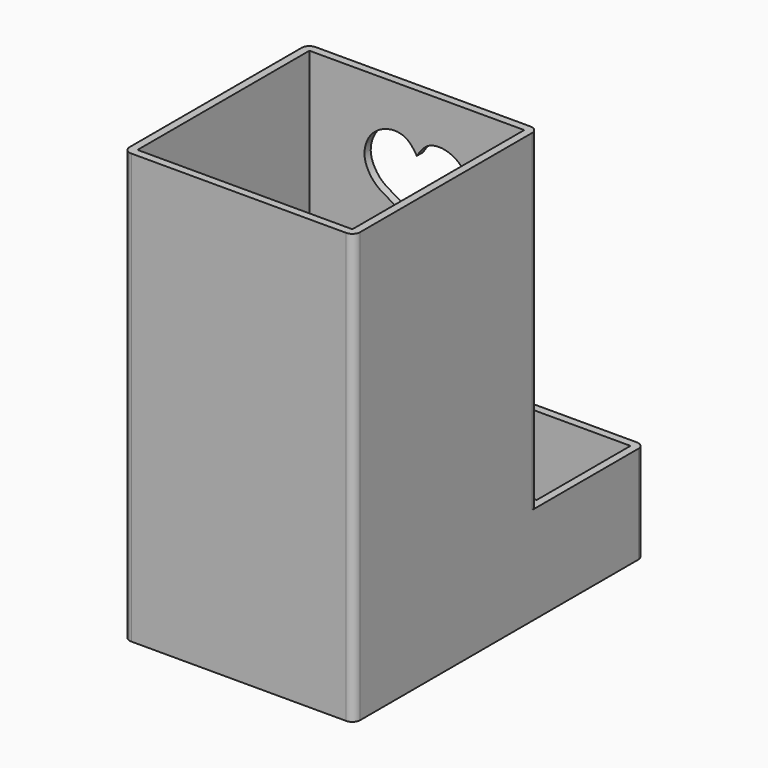
from build123d import *

# Parameters (mm, degrees)
SKETCH_W       = 59
SKETCH_H       = 34
PAD_DEPTH      = 25
THICKNESS_T    = -2
SKETCH002_W    = 59
SKETCH002_H    = 59
PAD001_DEPTH   = 110
THICKNESS001_T = -2
FILLET_R       = 2
FILLET001_R    = 2
POCKET_DEPTH   = 2


with BuildPart() as body:
    # Sketch → Pad (new body)
    with BuildSketch(Plane.XY):
        Rectangle(SKETCH_W, SKETCH_H)
    extrude(amount=PAD_DEPTH)

    # Thickness
    thickness_openings = [body.faces().sort_by_distance(p)[0] for p in [
        (0, 0, 25),
    ]]
    offset(amount=THICKNESS_T, openings=thickness_openings)


with BuildPart() as body001:
    # Sketch002 → Pad001 (new body)
    with BuildSketch(Plane.XY):
        with Locations((0, -46.5)):
            Rectangle(SKETCH002_W, SKETCH002_H)
    extrude(amount=PAD001_DEPTH)

    # Thickness001
    thickness001_openings = [body001.faces().sort_by_distance(p)[0] for p in [
        (0, -46.5, 110),
    ]]
    offset(amount=THICKNESS001_T, openings=thickness001_openings)

    # Boolean: union Body
    add(body.part)

    # Fillet
    fillet_edges = [body001.edges().sort_by_distance(p)[0] for p in [
        (29.5, -76, 55),
        (29.5, 17, 12.5),
        (-29.5, -76, 55),
        (-29.5, 17, 12.5),
    ]]
    fillet(fillet_edges, radius=FILLET_R)

    # Fillet001
    fillet001_edges = [body001.edges().sort_by_distance(p)[0] for p in [
        (29.5, -17, 67.5),
        (-29.5, -17, 67.5),
    ]]
    fillet(fillet001_edges, radius=FILLET001_R)

    # Sketch003 → Pocket (cut)
    with BuildSketch(Plane(origin=(0, -17, 0), x_dir=(-1, 0, 0), z_dir=(0, 1, 0))):
        with BuildLine():
            add(Edge.make_bspline(
                [(0, 75.6251), (-2.511254, 80.679903), (-7.485486, 83.314581), (-11.174629, 85.509438), (-13.605908, 89.797189), (-13.37285, 93.451754), (-11.541057, 97.022131), (-7.614382, 99.161534), (-3.819055, 99.187138), (-1.554081, 97.750555), (0, 95.2257)],
                knots=[0, 0, 0, 0, 0.125, 0.25, 0.375, 0.5, 0.625, 0.75, 0.875, 1, 1, 1, 1], degree=3))
            add(Edge.make_bspline(
                [(0, 75.6251), (2.511254, 80.679903), (7.485486, 83.314581), (11.174629, 85.509438), (13.605908, 89.797189), (13.37285, 93.451754), (11.541057, 97.022131), (7.614382, 99.161534), (3.819055, 99.187138), (1.554081, 97.750555), (0, 95.2257)],
                knots=[0, 0, 0, 0, 0.125, 0.25, 0.375, 0.5, 0.625, 0.75, 0.875, 1, 1, 1, 1], degree=3))
        make_face()
    extrude(amount=-POCKET_DEPTH, mode=Mode.SUBTRACT)


solid = body001.part
